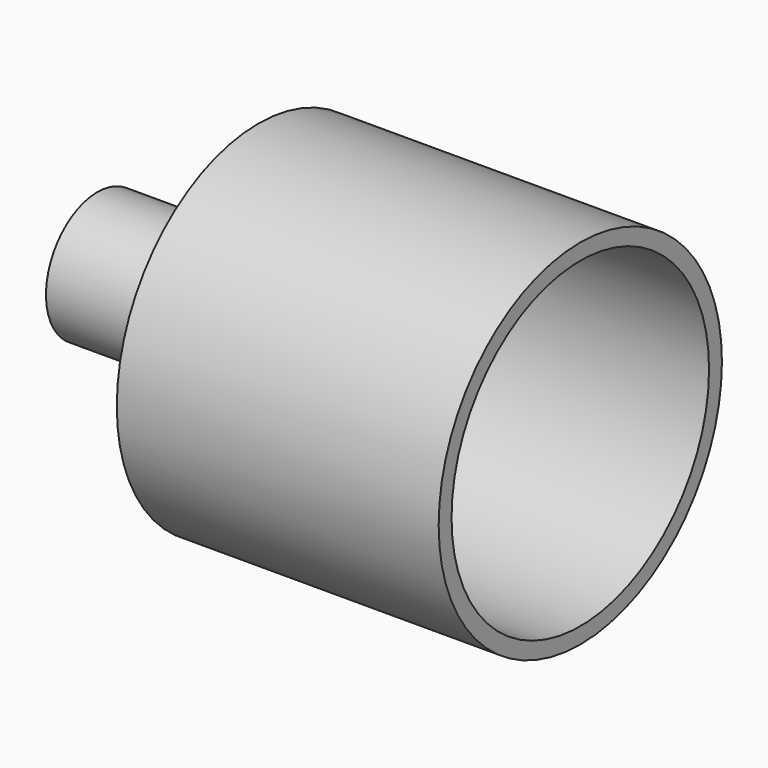
from build123d import *


with BuildPart() as f1:
    # F0 (on Top) → F1 (revolve)
    with BuildSketch(Plane.XY):
        Polygon((5.08, 10.16), (0, 10.16), (-12.7, 10.16), (-12.7, 7.62), (0, 7.62), (0, 3.81), (-2.54, 3.81), (-2.54, 0), (0, 0), (15.24, 0), (27.94, 0), (27.94, 2.54), (22.86, 2.54), (22.86, 10.16), (15.24, 10.16), (15.24, 25.4), (63.5, 25.4), (63.5, 27.94), (12.7, 27.94), (12.7, 2.54), (5.08, 2.54), align=None)
    revolve(axis=Axis((7.62, 0, 0), (-1, 0, 0)))


solid = f1.part
